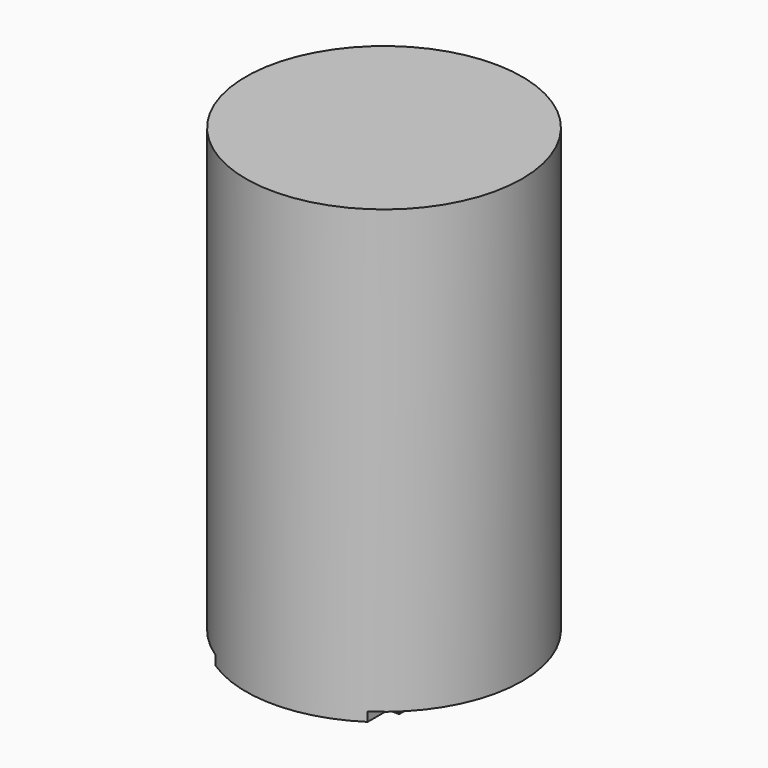
from build123d import *

# Parameters (mm, degrees)
BOX013_W          = 10
BOX013_H          = 10
BOX013_DEPTH      = 0.4
BOX012_W          = 10
BOX012_H          = 10
BOX012_DEPTH      = 0.2
BOX014_W          = 10
BOX014_H          = 10
BOX014_DEPTH      = 0.4
BOX011_W          = 10
BOX011_H          = 10
BOX011_DEPTH      = 0.2
CYLINDER008_R     = 3
CYLINDER008_DEPTH = 10


with BuildPart() as cube011:
    # Box013 → Box013 (new body)
    with BuildSketch(Plane(origin=(-11.65, -5, 0), x_dir=(1, 0, 0), z_dir=(0, 0, 1))):
        with Locations((5, 5)):
            Rectangle(BOX013_W, BOX013_H)
    extrude(amount=BOX013_DEPTH)


with BuildPart() as cube010:
    # Box012 → Box012 (new body)
    with BuildSketch(Plane(origin=(-5, -11.65, 0), x_dir=(1, 0, 0), z_dir=(0, 0, 1))):
        with Locations((5, 5)):
            Rectangle(BOX012_W, BOX012_H)
    extrude(amount=BOX012_DEPTH)


with BuildPart() as cube012:
    # Box014 → Box014 (new body)
    with BuildSketch(Plane(origin=(1.65, -5, 0), x_dir=(1, 0, 0), z_dir=(0, 0, 1))):
        with Locations((5, 5)):
            Rectangle(BOX014_W, BOX014_H)
    extrude(amount=BOX014_DEPTH)


with BuildPart() as fusion004:
    # Box011 → Box011 (new body)
    with BuildSketch(Plane(origin=(-5, 1.65, 0), x_dir=(1, 0, 0), z_dir=(0, 0, 1))):
        with Locations((5, 5)):
            Rectangle(BOX011_W, BOX011_H)
    extrude(amount=BOX011_DEPTH)

    # Fusion004: union Cube011, Cube010, Cube012
    add(cube011.part)
    add(cube010.part)
    add(cube012.part)


with BuildPart() as m3_slot:
    # Cylinder008 → Cylinder008 (new body)
    with BuildSketch(Plane.XY):
        Circle(CYLINDER008_R)
    extrude(amount=CYLINDER008_DEPTH)

    # Cut004: cut Fusion004
    add(fusion004.part, mode=Mode.SUBTRACT)


solid = m3_slot.part
